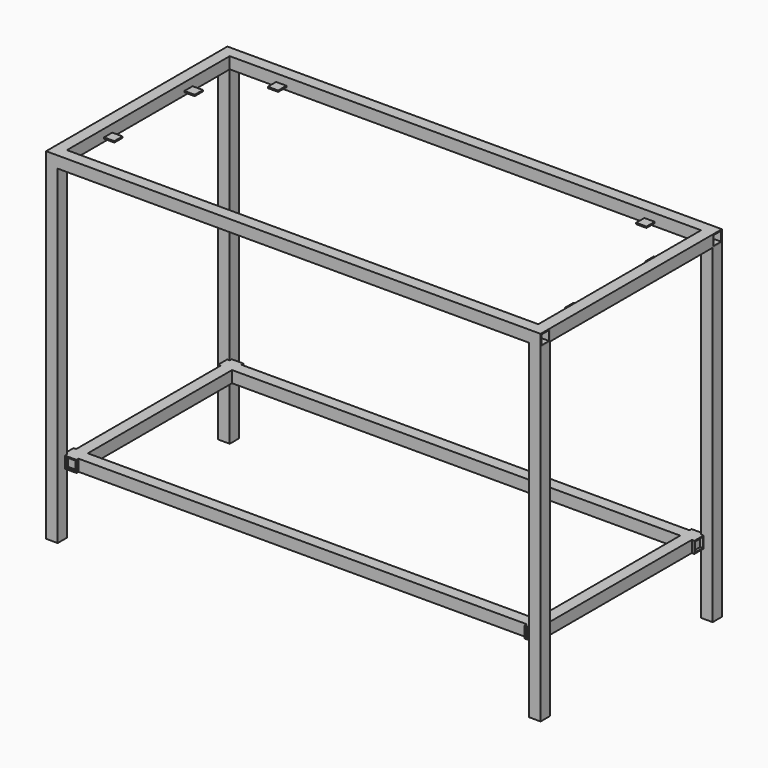
from build123d import *

# Parameters (mm, degrees)
CUBE009_W                     = 25.4
CUBE009_H                     = 25.4
CUBE009_DEPTH                 = 3.175
CUBE010_W                     = 25.4
CUBE010_H                     = 25.4
CUBE010_DEPTH                 = 3.175
CUBE011_W                     = 25.4
CUBE011_H                     = 25.4
CUBE011_DEPTH                 = 3.175
CUBE012_W                     = 25.4
CUBE012_H                     = 25.4
CUBE012_DEPTH                 = 3.175
CUBE013_W                     = 25.4
CUBE013_H                     = 25.4
CUBE013_DEPTH                 = 3.175
CUBE014_W                     = 25.4
CUBE014_H                     = 25.4
CUBE014_DEPTH                 = 3.175
CUBE015_W                     = 25.4
CUBE015_H                     = 25.4
CUBE015_DEPTH                 = 3.175
CUBE008_W                     = 25.4
CUBE008_H                     = 25.4
CUBE008_DEPTH                 = 3.175
CUBE019_W                     = 23.495
CUBE019_H                     = 23.495
CUBE019_DEPTH                 = 812.82
CUBE018_W                     = 28.575
CUBE018_H                     = 28.575
CUBE018_DEPTH                 = 812.8
CUBE021_W                     = 23.495
CUBE021_H                     = 23.495
CUBE021_DEPTH                 = 812.82
CUBE020_W                     = 28.575
CUBE020_H                     = 28.575
CUBE020_DEPTH                 = 812.8
CUBE023_W                     = 23.495
CUBE023_H                     = 23.495
CUBE023_DEPTH                 = 812.82
CUBE022_W                     = 28.575
CUBE022_H                     = 28.575
CUBE022_DEPTH                 = 812.8
CUBE017_W                     = 23.495
CUBE017_H                     = 23.495
CUBE017_DEPTH                 = 812.82
CUBE016_W                     = 28.575
CUBE016_H                     = 28.575
CUBE016_DEPTH                 = 812.8
CUBE027_W                     = 1174.77
CUBE027_H                     = 23.495
CUBE027_DEPTH                 = 23.495
CUBE026_W                     = 1174.75
CUBE026_H                     = 28.575
CUBE026_DEPTH                 = 28.575
CUBE029_W                     = 514.37
CUBE029_H                     = 23.495
CUBE029_DEPTH                 = 23.495
CUBE028_W                     = 514.35
CUBE028_H                     = 28.575
CUBE028_DEPTH                 = 28.575
DIFFERENCE010_PLACEMENT_ANGLE = 90
CUBE031_W                     = 514.37
CUBE031_H                     = 23.495
CUBE031_DEPTH                 = 23.495
CUBE030_W                     = 514.35
CUBE030_H                     = 28.575
CUBE030_DEPTH                 = 28.575
DIFFERENCE011_PLACEMENT_ANGLE = 90
CUBE025_W                     = 1174.77
CUBE025_H                     = 23.495
CUBE025_DEPTH                 = 23.495
CUBE024_W                     = 1174.75
CUBE024_H                     = 28.575
CUBE024_DEPTH                 = 28.575
CUBE003_W                     = 1219.23
CUBE003_H                     = 23.495
CUBE003_DEPTH                 = 23.495
CUBE002_W                     = 1219.21
CUBE002_H                     = 28.575
CUBE002_DEPTH                 = 28.575
CUBE005_W                     = 501.68
CUBE005_H                     = 23.495
CUBE005_DEPTH                 = 23.495
CUBE004_W                     = 501.66
CUBE004_H                     = 28.575
CUBE004_DEPTH                 = 28.575
DIFFERENCE002_PLACEMENT_ANGLE = 90
CUBE007_W                     = 501.68
CUBE007_H                     = 23.495
CUBE007_DEPTH                 = 23.495
CUBE006_W                     = 501.66
CUBE006_H                     = 28.575
CUBE006_DEPTH                 = 28.575
DIFFERENCE003_PLACEMENT_ANGLE = 90
CUBE001_W                     = 1219.23
CUBE001_H                     = 23.495
CUBE001_DEPTH                 = 23.495
CUBE_W                        = 1219.21
CUBE_H                        = 28.575
CUBE_DEPTH                    = 28.575


with BuildPart() as cube009:
    # cube009 → cube009 (new body)
    with BuildSketch(Plane(origin=(555.625, 111.125, -7.65175), x_dir=(1, 0, 0), z_dir=(0, 0, 1))):
        with Locations((12.7, 12.7)):
            Rectangle(CUBE009_W, CUBE009_H)
    extrude(amount=CUBE009_DEPTH)


with BuildPart() as cube010:
    # cube010 → cube010 (new body)
    with BuildSketch(Plane(origin=(-581.025, -136.525, -7.65175), x_dir=(1, 0, 0), z_dir=(0, 0, 1))):
        with Locations((12.7, 12.7)):
            Rectangle(CUBE010_W, CUBE010_H)
    extrude(amount=CUBE010_DEPTH)


with BuildPart() as cube011:
    # cube011 → cube011 (new body)
    with BuildSketch(Plane(origin=(-581.025, 111.125, -7.65175), x_dir=(1, 0, 0), z_dir=(0, 0, 1))):
        with Locations((12.7, 12.7)):
            Rectangle(CUBE011_W, CUBE011_H)
    extrude(amount=CUBE011_DEPTH)


with BuildPart() as cube012:
    # cube012 → cube012 (new body)
    with BuildSketch(Plane(origin=(-466.725, 225.425, -7.65175), x_dir=(1, 0, 0), z_dir=(0, 0, 1))):
        with Locations((12.7, 12.7)):
            Rectangle(CUBE012_W, CUBE012_H)
    extrude(amount=CUBE012_DEPTH)


with BuildPart() as cube013:
    # cube013 → cube013 (new body)
    with BuildSketch(Plane(origin=(441.325, 225.425, -7.65175), x_dir=(1, 0, 0), z_dir=(0, 0, 1))):
        with Locations((12.7, 12.7)):
            Rectangle(CUBE013_W, CUBE013_H)
    extrude(amount=CUBE013_DEPTH)


with BuildPart() as cube014:
    # cube014 → cube014 (new body)
    with BuildSketch(Plane(origin=(-466.725, -250.825, -7.65175), x_dir=(1, 0, 0), z_dir=(0, 0, 1))):
        with Locations((12.7, 12.7)):
            Rectangle(CUBE014_W, CUBE014_H)
    extrude(amount=CUBE014_DEPTH)


with BuildPart() as cube015:
    # cube015 → cube015 (new body)
    with BuildSketch(Plane(origin=(441.325, -250.825, -7.65175), x_dir=(1, 0, 0), z_dir=(0, 0, 1))):
        with Locations((12.7, 12.7)):
            Rectangle(CUBE015_W, CUBE015_H)
    extrude(amount=CUBE015_DEPTH)


with BuildPart() as group001:
    # cube008 → cube008 (new body)
    with BuildSketch(Plane(origin=(555.625, -136.525, -7.65175), x_dir=(1, 0, 0), z_dir=(0, 0, 1))):
        with Locations((12.7, 12.7)):
            Rectangle(CUBE008_W, CUBE008_H)
    extrude(amount=CUBE008_DEPTH)

    # Group001: union cube009, cube010, cube011, cube012, cube013, cube014, cube015
    add(cube009.part)
    add(cube010.part)
    add(cube011.part)
    add(cube012.part)
    add(cube013.part)
    add(cube014.part)
    add(cube015.part)


with BuildPart() as cube019:
    # cube019 → cube019 (new body)
    with BuildSketch(Plane(origin=(-11.7475, -11.7475, -812.81), x_dir=(1, 0, 0), z_dir=(0, 0, 1))):
        with Locations((11.7475, 11.7475)):
            Rectangle(CUBE019_W, CUBE019_H)
    extrude(amount=CUBE019_DEPTH)


with BuildPart() as difference005:
    # cube018 → cube018 (new body)
    with BuildSketch(Plane(origin=(-14.2875, -14.2875, -812.8), x_dir=(1, 0, 0), z_dir=(0, 0, 1))):
        with Locations((14.2875, 14.2875)):
            Rectangle(CUBE018_W, CUBE018_H)
    extrude(amount=CUBE018_DEPTH)

    # difference005: cut cube019
    add(cube019.part, mode=Mode.SUBTRACT)


with BuildPart() as difference005_1:
    # difference005 placement: moved
    add(difference005.part.moved(Location((-595.312, 265.112, -14.2875))))


with BuildPart() as cube021:
    # cube021 → cube021 (new body)
    with BuildSketch(Plane(origin=(-11.7475, -11.7475, -812.81), x_dir=(1, 0, 0), z_dir=(0, 0, 1))):
        with Locations((11.7475, 11.7475)):
            Rectangle(CUBE021_W, CUBE021_H)
    extrude(amount=CUBE021_DEPTH)


with BuildPart() as difference006:
    # cube020 → cube020 (new body)
    with BuildSketch(Plane(origin=(-14.2875, -14.2875, -812.8), x_dir=(1, 0, 0), z_dir=(0, 0, 1))):
        with Locations((14.2875, 14.2875)):
            Rectangle(CUBE020_W, CUBE020_H)
    extrude(amount=CUBE020_DEPTH)

    # difference006: cut cube021
    add(cube021.part, mode=Mode.SUBTRACT)


with BuildPart() as difference006_1:
    # difference006 placement: moved
    add(difference006.part.moved(Location((-595.312, -265.112, -14.2875))))


with BuildPart() as cube023:
    # cube023 → cube023 (new body)
    with BuildSketch(Plane(origin=(-11.7475, -11.7475, -812.81), x_dir=(1, 0, 0), z_dir=(0, 0, 1))):
        with Locations((11.7475, 11.7475)):
            Rectangle(CUBE023_W, CUBE023_H)
    extrude(amount=CUBE023_DEPTH)


with BuildPart() as difference007:
    # cube022 → cube022 (new body)
    with BuildSketch(Plane(origin=(-14.2875, -14.2875, -812.8), x_dir=(1, 0, 0), z_dir=(0, 0, 1))):
        with Locations((14.2875, 14.2875)):
            Rectangle(CUBE022_W, CUBE022_H)
    extrude(amount=CUBE022_DEPTH)

    # difference007: cut cube023
    add(cube023.part, mode=Mode.SUBTRACT)


with BuildPart() as difference007_1:
    # difference007 placement: moved
    add(difference007.part.moved(Location((595.312, -265.112, -14.2875))))


with BuildPart() as cube017:
    # cube017 → cube017 (new body)
    with BuildSketch(Plane(origin=(-11.7475, -11.7475, -812.81), x_dir=(1, 0, 0), z_dir=(0, 0, 1))):
        with Locations((11.7475, 11.7475)):
            Rectangle(CUBE017_W, CUBE017_H)
    extrude(amount=CUBE017_DEPTH)


with BuildPart() as group002:
    # cube016 → cube016 (new body)
    with BuildSketch(Plane(origin=(-14.2875, -14.2875, -812.8), x_dir=(1, 0, 0), z_dir=(0, 0, 1))):
        with Locations((14.2875, 14.2875)):
            Rectangle(CUBE016_W, CUBE016_H)
    extrude(amount=CUBE016_DEPTH)

    # difference004: cut cube017
    add(cube017.part, mode=Mode.SUBTRACT)


with BuildPart() as group002_1:
    # difference004 placement: moved
    add(group002.part.moved(Location((595.312, 265.112, -14.2875))))

    # Group002: union difference005, difference006, difference007
    add(difference005_1.part)
    add(difference006_1.part)
    add(difference007_1.part)


with BuildPart() as cube027:
    # cube027 → cube027 (new body)
    with BuildSketch(Plane(origin=(-587.385, -11.7475, -11.7475), x_dir=(1, 0, 0), z_dir=(0, 0, 1))):
        with Locations((587.385, 11.7475)):
            Rectangle(CUBE027_W, CUBE027_H)
    extrude(amount=CUBE027_DEPTH)


with BuildPart() as difference009:
    # cube026 → cube026 (new body)
    with BuildSketch(Plane(origin=(-587.375, -14.2875, -14.2875), x_dir=(1, 0, 0), z_dir=(0, 0, 1))):
        with Locations((587.375, 14.2875)):
            Rectangle(CUBE026_W, CUBE026_H)
    extrude(amount=CUBE026_DEPTH)

    # difference009: cut cube027
    add(cube027.part, mode=Mode.SUBTRACT)


with BuildPart() as difference009_1:
    # difference009 placement: moved
    add(difference009.part.moved(Location((0, -236.537, -660.4))))


with BuildPart() as cube029:
    # cube029 → cube029 (new body)
    with BuildSketch(Plane(origin=(-257.185, -11.7475, -11.7475), x_dir=(1, 0, 0), z_dir=(0, 0, 1))):
        with Locations((257.185, 11.7475)):
            Rectangle(CUBE029_W, CUBE029_H)
    extrude(amount=CUBE029_DEPTH)


with BuildPart() as difference010:
    # cube028 → cube028 (new body)
    with BuildSketch(Plane(origin=(-257.175, -14.2875, -14.2875), x_dir=(1, 0, 0), z_dir=(0, 0, 1))):
        with Locations((257.175, 14.2875)):
            Rectangle(CUBE028_W, CUBE028_H)
    extrude(amount=CUBE028_DEPTH)

    # difference010: cut cube029
    add(cube029.part, mode=Mode.SUBTRACT)


with BuildPart() as difference010_1:
    # difference010 placement: moved
    add(difference010.part.moved(Location((566.737, 0, -660.4))).rotate(Axis((566.737, 0, -660.4), (0, 0, 1)), DIFFERENCE010_PLACEMENT_ANGLE))


with BuildPart() as cube031:
    # cube031 → cube031 (new body)
    with BuildSketch(Plane(origin=(-257.185, -11.7475, -11.7475), x_dir=(1, 0, 0), z_dir=(0, 0, 1))):
        with Locations((257.185, 11.7475)):
            Rectangle(CUBE031_W, CUBE031_H)
    extrude(amount=CUBE031_DEPTH)


with BuildPart() as difference011:
    # cube030 → cube030 (new body)
    with BuildSketch(Plane(origin=(-257.175, -14.2875, -14.2875), x_dir=(1, 0, 0), z_dir=(0, 0, 1))):
        with Locations((257.175, 14.2875)):
            Rectangle(CUBE030_W, CUBE030_H)
    extrude(amount=CUBE030_DEPTH)

    # difference011: cut cube031
    add(cube031.part, mode=Mode.SUBTRACT)


with BuildPart() as difference011_1:
    # difference011 placement: moved
    add(difference011.part.moved(Location((-566.737, 0, -660.4))).rotate(Axis((-566.737, 0, -660.4), (0, 0, 1)), DIFFERENCE011_PLACEMENT_ANGLE))


with BuildPart() as cube025:
    # cube025 → cube025 (new body)
    with BuildSketch(Plane(origin=(-587.385, -11.7475, -11.7475), x_dir=(1, 0, 0), z_dir=(0, 0, 1))):
        with Locations((587.385, 11.7475)):
            Rectangle(CUBE025_W, CUBE025_H)
    extrude(amount=CUBE025_DEPTH)


with BuildPart() as group003:
    # cube024 → cube024 (new body)
    with BuildSketch(Plane(origin=(-587.375, -14.2875, -14.2875), x_dir=(1, 0, 0), z_dir=(0, 0, 1))):
        with Locations((587.375, 14.2875)):
            Rectangle(CUBE024_W, CUBE024_H)
    extrude(amount=CUBE024_DEPTH)

    # difference008: cut cube025
    add(cube025.part, mode=Mode.SUBTRACT)


with BuildPart() as group003_1:
    # difference008 placement: moved
    add(group003.part.moved(Location((0, 236.537, -660.4))))

    # Group003: union difference009, difference010, difference011
    add(difference009_1.part)
    add(difference010_1.part)
    add(difference011_1.part)


with BuildPart() as cube003:
    # cube003 → cube003 (new body)
    with BuildSketch(Plane(origin=(-609.615, -11.7475, -11.7475), x_dir=(1, 0, 0), z_dir=(0, 0, 1))):
        with Locations((609.615, 11.7475)):
            Rectangle(CUBE003_W, CUBE003_H)
    extrude(amount=CUBE003_DEPTH)


with BuildPart() as difference001:
    # cube002 → cube002 (new body)
    with BuildSketch(Plane(origin=(-609.605, -14.2875, -14.2875), x_dir=(1, 0, 0), z_dir=(0, 0, 1))):
        with Locations((609.605, 14.2875)):
            Rectangle(CUBE002_W, CUBE002_H)
    extrude(amount=CUBE002_DEPTH)

    # difference001: cut cube003
    add(cube003.part, mode=Mode.SUBTRACT)


with BuildPart() as difference001_1:
    # difference001 placement: moved
    add(difference001.part.moved(Location((0, -265.112, 0))))


with BuildPart() as cube005:
    # cube005 → cube005 (new body)
    with BuildSketch(Plane(origin=(-250.84, -11.7475, -11.7475), x_dir=(1, 0, 0), z_dir=(0, 0, 1))):
        with Locations((250.84, 11.7475)):
            Rectangle(CUBE005_W, CUBE005_H)
    extrude(amount=CUBE005_DEPTH)


with BuildPart() as difference002:
    # cube004 → cube004 (new body)
    with BuildSketch(Plane(origin=(-250.83, -14.2875, -14.2875), x_dir=(1, 0, 0), z_dir=(0, 0, 1))):
        with Locations((250.83, 14.2875)):
            Rectangle(CUBE004_W, CUBE004_H)
    extrude(amount=CUBE004_DEPTH)

    # difference002: cut cube005
    add(cube005.part, mode=Mode.SUBTRACT)


with BuildPart() as difference002_1:
    # difference002 placement: moved
    add(difference002.part.moved(Location((595.312, 0, 0))).rotate(Axis((595.312, 0, 0), (0, 0, 1)), DIFFERENCE002_PLACEMENT_ANGLE))


with BuildPart() as cube007:
    # cube007 → cube007 (new body)
    with BuildSketch(Plane(origin=(-250.84, -11.7475, -11.7475), x_dir=(1, 0, 0), z_dir=(0, 0, 1))):
        with Locations((250.84, 11.7475)):
            Rectangle(CUBE007_W, CUBE007_H)
    extrude(amount=CUBE007_DEPTH)


with BuildPart() as difference003:
    # cube006 → cube006 (new body)
    with BuildSketch(Plane(origin=(-250.83, -14.2875, -14.2875), x_dir=(1, 0, 0), z_dir=(0, 0, 1))):
        with Locations((250.83, 14.2875)):
            Rectangle(CUBE006_W, CUBE006_H)
    extrude(amount=CUBE006_DEPTH)

    # difference003: cut cube007
    add(cube007.part, mode=Mode.SUBTRACT)


with BuildPart() as difference003_1:
    # difference003 placement: moved
    add(difference003.part.moved(Location((-595.312, 0, 0))).rotate(Axis((-595.312, 0, 0), (0, 0, 1)), DIFFERENCE003_PLACEMENT_ANGLE))


with BuildPart() as cube001:
    # cube001 → cube001 (new body)
    with BuildSketch(Plane(origin=(-609.615, -11.7475, -11.7475), x_dir=(1, 0, 0), z_dir=(0, 0, 1))):
        with Locations((609.615, 11.7475)):
            Rectangle(CUBE001_W, CUBE001_H)
    extrude(amount=CUBE001_DEPTH)


with BuildPart() as union:
    # cube → cube (new body)
    with BuildSketch(Plane(origin=(-609.605, -14.2875, -14.2875), x_dir=(1, 0, 0), z_dir=(0, 0, 1))):
        with Locations((609.605, 14.2875)):
            Rectangle(CUBE_W, CUBE_H)
    extrude(amount=CUBE_DEPTH)

    # difference: cut cube001
    add(cube001.part, mode=Mode.SUBTRACT)


with BuildPart() as union_1:
    # difference placement: moved
    add(union.part.moved(Location((0, 265.112, 0))))

    # Group: union difference001, difference002, difference003
    add(difference001_1.part)
    add(difference002_1.part)
    add(difference003_1.part)

    # union: union Group001, Group002, Group003
    add(group001.part)
    add(group002_1.part)
    add(group003_1.part)


solid = union_1.part
